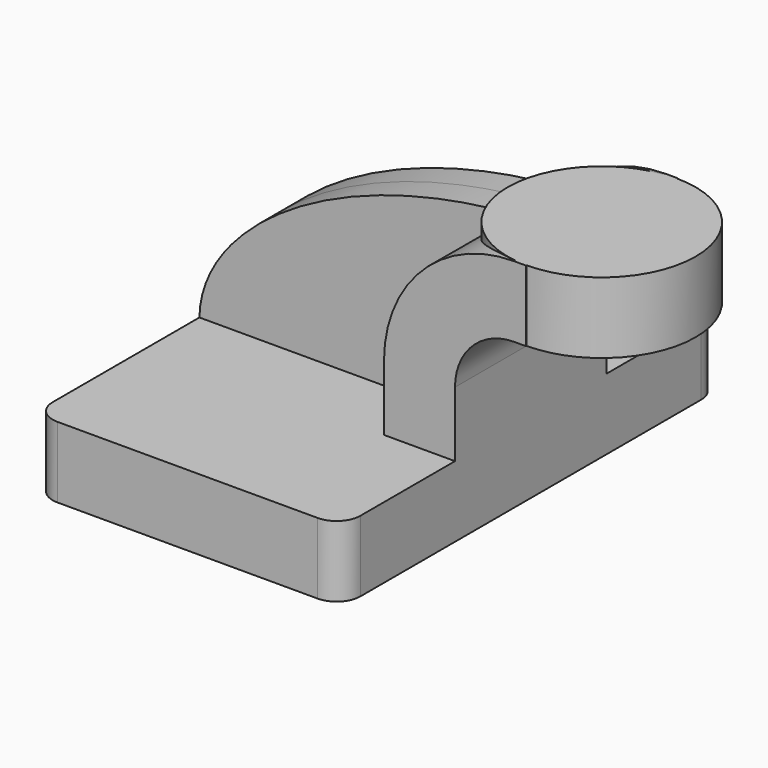
from build123d import *

# Parameters (mm, degrees)
F1_DEPTH = 63.5
F2_DEPTH = 25.4
F3_DEPTH = 7.9375
F0_W     = 25.2205249548
F0_H     = 19.0500000358
F5_R     = 6.35


with BuildPart() as f1:
    # F0 (on Front) → F1 (new body, symmetric)
    with BuildSketch(Plane.XZ):
        Polygon((-41.275, -9.525), (41.275, -9.525), (41.275, 9.525), (22.2249999642, 9.525), (-41.275, 9.525), align=None)
    extrude(amount=F1_DEPTH, both=True)

    # F0 (on Front) → F2 (join, symmetric)
    with BuildSketch(Plane.XZ):
        with BuildLine():
            Line((22.2249999642, 9.525), (41.275, 9.525))
            Line((41.275, 9.525), (41.275, 27.0002))
            ThreePointArc((41.275, 27.0002), (45.9246798487, 38.2255201513), (57.15, 42.8752))
            Line((57.15, 42.8752), (60.325, 42.8752))
            Line((60.325, 42.8752), (60.325, 61.9252000358))
            Line((60.325, 61.9252000358), (57.15, 61.9252000358))
            ThreePointArc((57.15, 61.9252000358), (32.4542956418, 51.6959043582), (22.2249999642, 27.0002))
            Line((22.2249999642, 27.0002), (22.2249999642, 9.525))
        make_face()
    extrude(amount=F2_DEPTH, both=True)

    # F0 (on Front) → F3 (join, symmetric)
    with BuildSketch(Plane.XZ):
        with BuildLine():
            add(Edge.make_bspline(
                [(-41.275, 9.525), (-40.8977142173, 34.432549157), (0, 61.9252000358), (57.15, 61.9252000358)],
                knots=[0, 0, 0, 0, 111.5045361803, 111.5045361803, 111.5045361803, 111.5045361803], degree=3))
            Line((-41.275, 9.525), (22.2249999642, 9.525))
            Line((22.2249999642, 9.525), (22.2249999642, 27.0002))
            ThreePointArc((22.2249999642, 27.0002), (32.4542956418, 51.6959043582), (57.15, 61.9252000358))
        make_face()
    extrude(amount=F3_DEPTH, both=True)

    # F0 (on Front) → F4 (revolve)
    with BuildSketch(Plane.XZ):
        with Locations((72.9352624774, 52.4002000179)):
            Rectangle(F0_W, F0_H)
    revolve(axis=Axis((60.325, 0, 52.3875), (0, 0, 1)))

    # F5
    f5_edges = [f1.edges().sort_by_distance(p)[0] for p in [
        (41.275, -63.5, 0),
        (-41.275, -63.5, 0),
        (41.275, 63.5, 0),
        (-41.275, 63.5, 0),
    ]]
    fillet(f5_edges, radius=F5_R)


solid = f1.part
